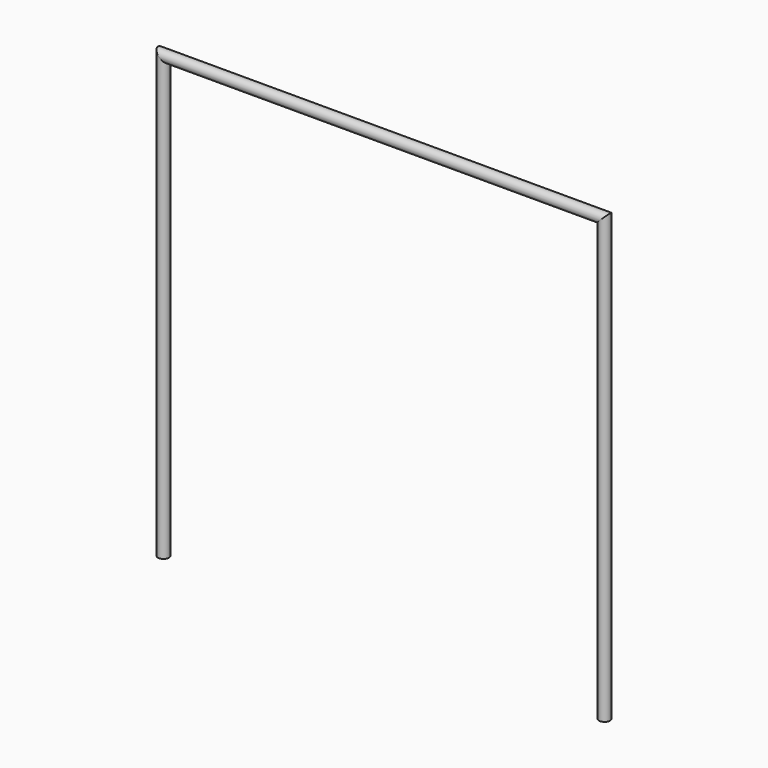
from build123d import *

# Parameters (mm, degrees)
F3_R = 25


with BuildPart() as f4:
    # F4: sweep along a path in F2
    with BuildLine(Plane.XZ) as f4_path:
        Line((-2463.4050726811, 0), (-2463.4050726811, 1999.999999992))
        Line((-2463.4050726811, 1999.999999992), (-463.4050726891, 1999.999999992))
        Line((-463.4050726891, 1999.999999992), (-463.4050726891, 0))
    # F3 (on Top) → F4 (sweep)
    with BuildSketch(Plane.XY):
        with Locations((-2463.4050726811, 0)):
            Circle(F3_R)
    sweep(path=f4_path.line, transition=Transition.RIGHT)


solid = f4.part
